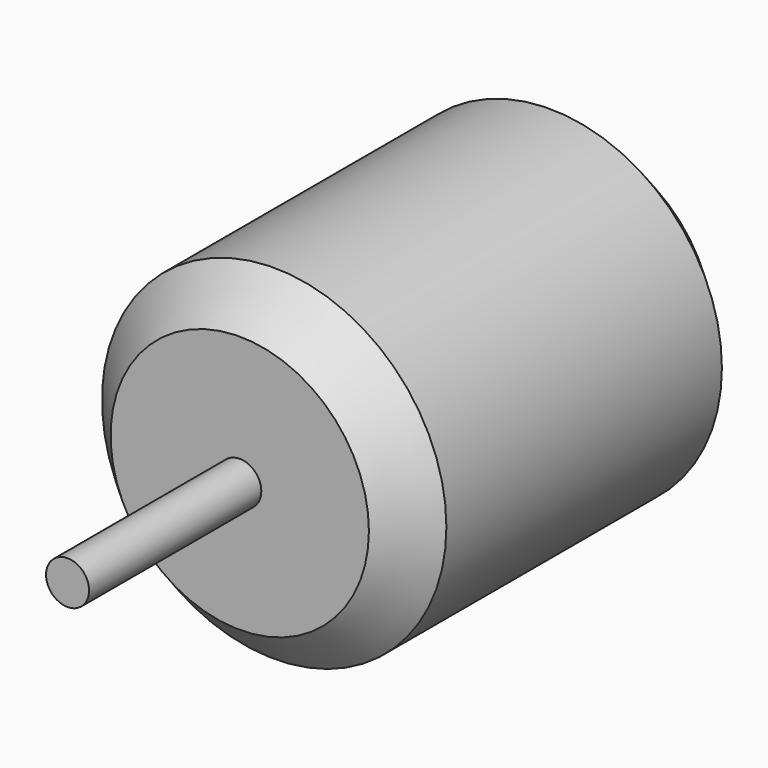
from build123d import *

# Parameters (mm, degrees)
F0_R     = 20
F1_DEPTH = 50
F2_SIZE  = 5
F4_SIZE  = 5
F3_R     = 2.5
F5_DEPTH = 25


with BuildPart() as f1:
    # F0 (on Front) → F1 (new body)
    with BuildSketch(Plane.XZ):
        Circle(F0_R)
    extrude(amount=F1_DEPTH)

    # F2
    f2_edges = [f1.edges().sort_by_distance(p)[0] for p in [
        (-20, -50, 0),
    ]]
    chamfer(f2_edges, length=F2_SIZE)

    # F4
    f4_edges = [f1.edges().sort_by_distance(p)[0] for p in [
        (-20, 0, 0),
    ]]
    chamfer(f4_edges, length=F4_SIZE)


with BuildPart() as f5:
    # F3 (on face) → F5 (new body)
    with BuildSketch(Plane.XZ.offset(50)):
        Circle(F3_R)
    extrude(amount=F5_DEPTH)


solid = Compound([f1.part, f5.part])
